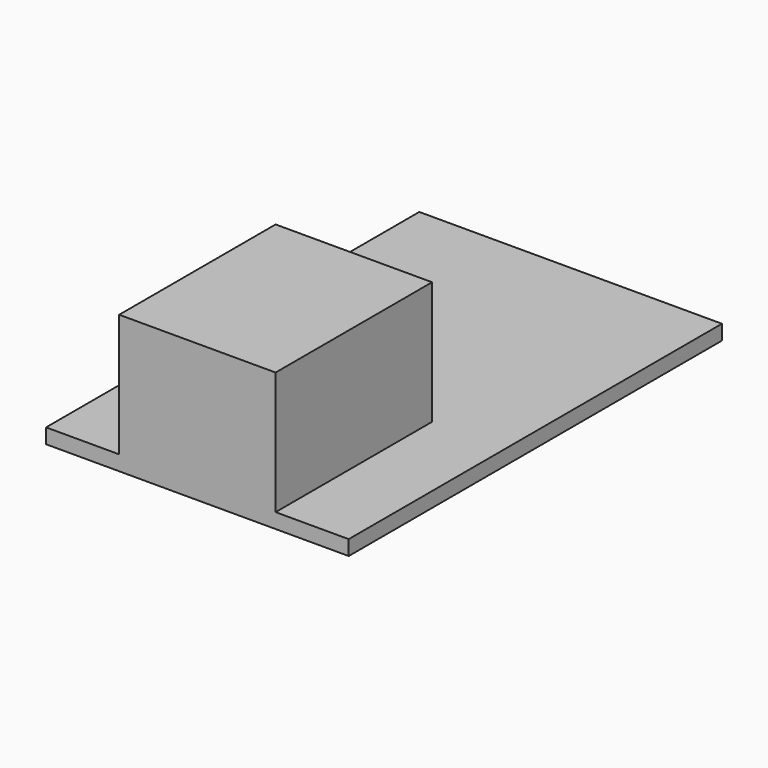
from build123d import *

# Parameters (mm, degrees)
F0_W     = 32.5
F0_H     = 50.1
F2_DEPTH = 1.6
F3_START = 4.05
F1_W     = 16.8
F1_H     = 13.2
F3_DEPTH = 21


with BuildPart() as f2:
    # F0 (on Top) → F2 (new body)
    with BuildSketch(Plane.XY):
        Rectangle(F0_W, F0_H)
    extrude(amount=-F2_DEPTH)

    # F1 (on Front) → F3 (join)
    with BuildSketch(Plane.XZ.offset(F3_START)):
        with Locations((0, 6.6)):
            Rectangle(F1_W, F1_H)
    extrude(amount=F3_DEPTH)


solid = f2.part
